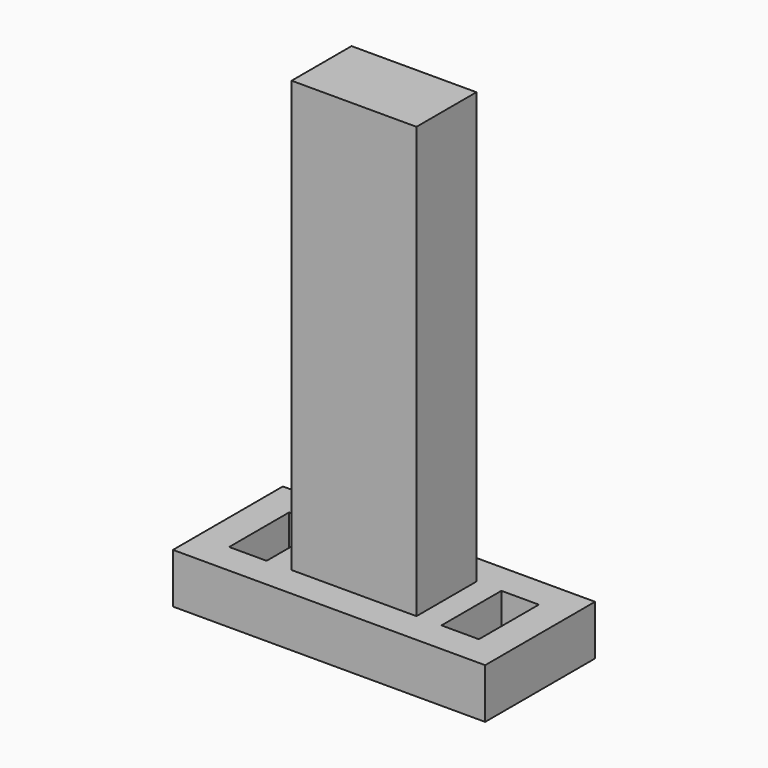
from build123d import *

# Parameters (mm, degrees)
F0_W     = 15
F0_H     = 11
F1_DEPTH = 4
F2_W     = 10
F2_H     = 6
F3_DEPTH = 34.5
F0_W_2   = 5
F4_DEPTH = 4
F5_W     = 3
F5_H     = 6
F6_DEPTH = 4


with BuildPart() as f1:
    # F0 (on Top) → F1 (new body)
    with BuildSketch(Plane.XY):
        Rectangle(F0_W, F0_H)
    extrude(amount=F1_DEPTH)

    # F2 (on face) → F3 (join)
    with BuildSketch(Plane.XY.offset(4)):
        Rectangle(F2_W, F2_H)
    extrude(amount=F3_DEPTH)

    # F0 (on Top) → F4 (join)
    with BuildSketch(Plane.XY):
        Rectangle(F0_W, F0_H)
        with Locations((10, 0)):
            Rectangle(F0_W_2, F0_H)
        with Locations((-10, 0)):
            Rectangle(F0_W_2, F0_H)
    extrude(amount=F4_DEPTH)

    # F5 (on face) → F6 (cut)
    with BuildSketch(Plane.XY.offset(4)):
        with Locations((-8.5, 0)):
            Rectangle(F5_W, F5_H)
        with Locations((8.5, 0)):
            Rectangle(F5_W, F5_H)
    extrude(amount=-F6_DEPTH, mode=Mode.SUBTRACT)


solid = f1.part
